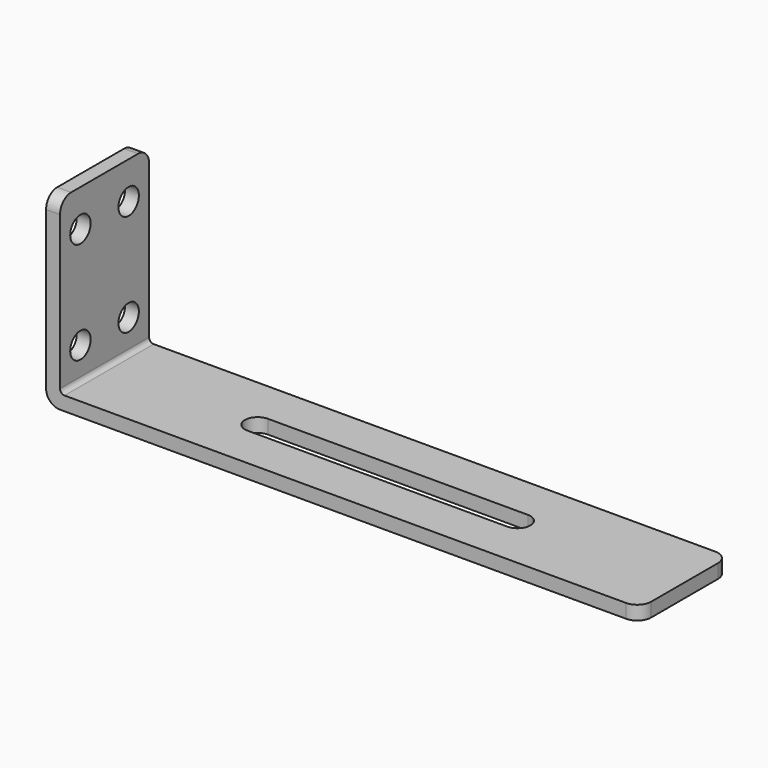
from build123d import *

# Parameters (mm, degrees)
F1_DEPTH = 38.1
F2_R     = 9.525
F3_R     = 3.175
F4_R     = 9.525
F5_R     = 8.7376
F6_DEPTH = 25.4
F8_DEPTH = 25.4


with BuildPart() as f1:
    # F0 (on Front) → F1 (new body, symmetric)
    with BuildSketch(Plane.XZ):
        Polygon((-193.675, 127), (-203.2, 127), (-203.2, 0), (203.2, 0), (203.2, 9.525), (-193.675, 9.525), align=None)
    extrude(amount=F1_DEPTH, both=True)

    # F2
    f2_edges = [f1.edges().sort_by_distance(p)[0] for p in [
        (-198.4375, -38.1, 127),
        (-198.4375, 38.1, 127),
        (203.2, -38.1, 4.7625),
        (203.2, 38.1, 4.7625),
    ]]
    fillet(f2_edges, radius=F2_R)

    # F3
    f3_edges = [f1.edges().sort_by_distance(p)[0] for p in [
        (-193.675, 0, 9.525),
    ]]
    fillet(f3_edges, radius=F3_R)

    # F4
    f4_edges = [f1.edges().sort_by_distance(p)[0] for p in [
        (-203.2, 0, 0),
    ]]
    fillet(f4_edges, radius=F4_R)

    # F5 (on face) → F6 (cut)
    with BuildSketch(Plane(origin=(-203.2, 0, 0), x_dir=(0, -1, 0), z_dir=(-1, 0, 0))):
        with Locations((20.6248, 101.6)):
            Circle(F5_R)
        with Locations((-20.6248, 31.75)):
            Circle(F5_R)
        with Locations((20.6248, 31.75)):
            Circle(F5_R)
        with Locations((-20.6248, 101.6)):
            Circle(F5_R)
    extrude(amount=-F6_DEPTH, mode=Mode.SUBTRACT)

    # F7 (on face) → F8 (cut)
    with BuildSketch(Plane.XY.offset(9.525)):
        with BuildLine():
            ThreePointArc((-88.9, 8.763), (-97.663, 0), (-88.9, -8.763))
            Line((-88.9, -8.763), (88.9, -8.763))
            ThreePointArc((88.9, -8.763), (97.663, 0), (88.9, 8.763))
            Line((88.9, 8.763), (-88.9, 8.763))
        make_face()
    extrude(amount=-F8_DEPTH, mode=Mode.SUBTRACT)


solid = f1.part
